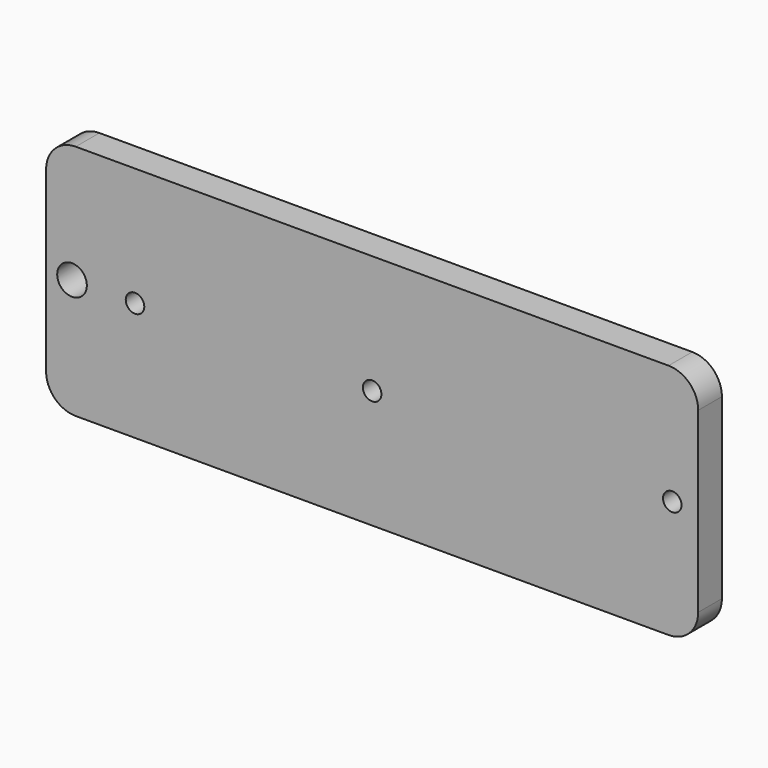
from build123d import *

# Parameters (mm, degrees)
F0_W     = 279.4
F0_H     = 101.6
F1_DEPTH = 12.7
F2_R     = 12.7
F4_D     = 7.9375
F6_D     = 7.9375
F8_D     = 12.7


with BuildPart() as f1:
    # F0 (on Front) → F1 (new body)
    with BuildSketch(Plane.XZ):
        with Locations((62.394057, 50.8)):
            Rectangle(F0_W, F0_H)
    extrude(amount=F1_DEPTH)

    # F2
    f2_edges = [f1.edges().sort_by_distance(p)[0] for p in [
        (-77.305943, -6.35, 101.6),
        (-77.305943, -6.35, 0),
        (202.094057, -6.35, 101.6),
        (202.094057, -6.35, 0),
    ]]
    fillet(f2_edges, radius=F2_R)

    # F4 (through all)
    with Locations(Plane.XZ.offset(12.7)):
        with Locations((62.394057, 50.8)):
            Hole(F4_D / 2)

    # F6 (through all)
    with Locations(Plane.XZ.offset(12.7)):
        with Locations((190.981557, 50.8), (-39.205943, 50.8)):
            Hole(F6_D / 2)

    # F8 (through all)
    with Locations(Plane.XZ.offset(12.7)):
        with Locations((-66.193443, 50.8)):
            Hole(F8_D / 2)


solid = f1.part
